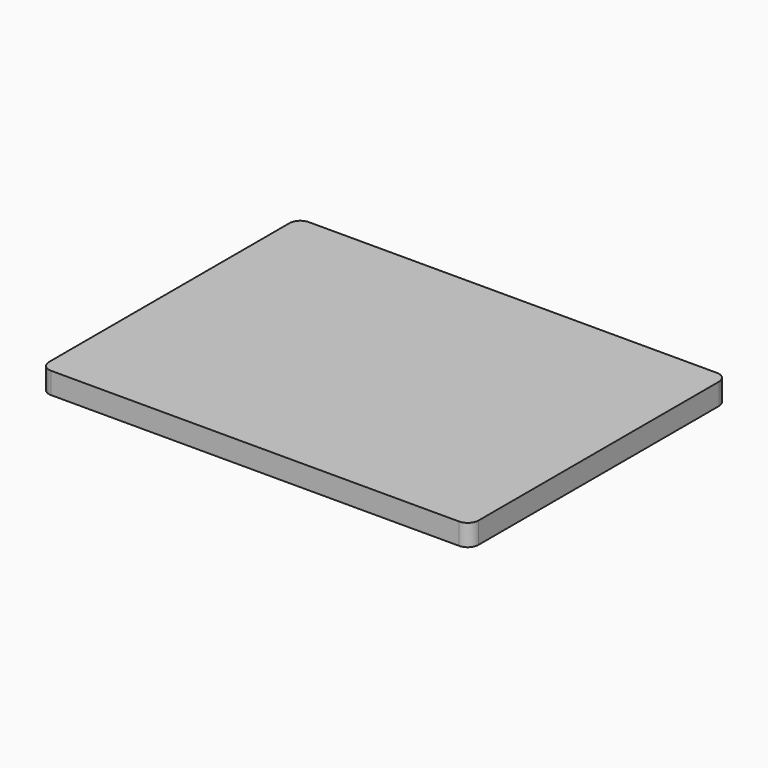
from build123d import *

# Parameters (mm, degrees)
F0_W     = 200
F0_H     = 150
F1_DEPTH = 5
F2_R     = 5
F3_R     = 5
F4_R     = 5
F5_R     = 5


with BuildPart() as f1:
    # F0 (on Top) → F1 (new body)
    with BuildSketch(Plane.XY):
        with Locations((1.104623, 8.018312)):
            Rectangle(F0_W, F0_H)
    extrude(amount=F1_DEPTH)

    # F2
    f2_edges = [f1.edges().sort_by_distance(p)[0] for p in [
        (-98.895377, -66.981688, 2.5),
    ]]
    fillet(f2_edges, radius=F2_R)

    # F3
    f3_edges = [f1.edges().sort_by_distance(p)[0] for p in [
        (-98.895377, 83.018312, 2.5),
    ]]
    fillet(f3_edges, radius=F3_R)

    # F4
    f4_edges = [f1.edges().sort_by_distance(p)[0] for p in [
        (101.104623, -66.981688, 2.5),
    ]]
    fillet(f4_edges, radius=F4_R)

    # F5
    f5_edges = [f1.edges().sort_by_distance(p)[0] for p in [
        (101.104623, 83.018312, 2.5),
    ]]
    fillet(f5_edges, radius=F5_R)

    # F7: F1 across face


with BuildPart() as f1_1:
    add(f1.part)
    add(f1.part.mirror(Plane(origin=(1.104623, 8.018312, 5), x_dir=(1, 0, 0), z_dir=(0, 0, 1))))


solid = f1_1.part
